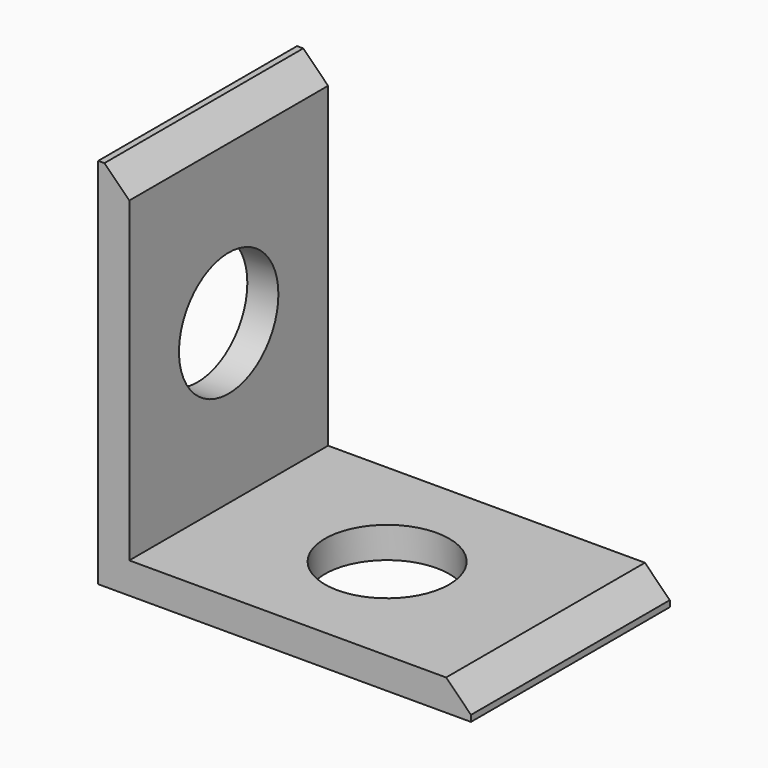
from build123d import *

# Parameters (mm, degrees)
F1_DEPTH = 25.4
F2_SIZE  = 2.54
F3_SIZE  = 2.54
F4_R     = 6.35
F6_DEPTH = 3.176
F5_R     = 6.35
F7_DEPTH = 3.176


with BuildPart() as f1:
    # F0 (on Front) → F1 (new body)
    with BuildSketch(Plane.XZ):
        Polygon((-64.33334, 25.44988), (-67.50834, 25.44988), (-67.50834, -12.65012), (-29.40834, -12.65012), (-29.40834, -9.47512), (-64.33334, -9.47512), align=None)
    extrude(amount=F1_DEPTH)

    # F2
    f2_edges = [f1.edges().sort_by_distance(p)[0] for p in [
        (-64.33334, -12.7, 25.44988),
    ]]
    chamfer(f2_edges, length=F2_SIZE)

    # F3
    f3_edges = [f1.edges().sort_by_distance(p)[0] for p in [
        (-29.40834, -12.7, -9.47512),
    ]]
    chamfer(f3_edges, length=F3_SIZE)

    # F4 (on face) → F6 (cut, through all)
    with BuildSketch(Plane.YZ.offset(-64.33334)):
        with Locations((-12.7, 6.71738)):
            Circle(F4_R)
    extrude(amount=-F6_DEPTH, mode=Mode.SUBTRACT)

    # F5 (on face) → F7 (cut, through all)
    with BuildSketch(Plane.XY.offset(-9.47512)):
        with Locations((-48.14084, -12.7)):
            Circle(F5_R)
    extrude(amount=-F7_DEPTH, mode=Mode.SUBTRACT)


solid = f1.part
